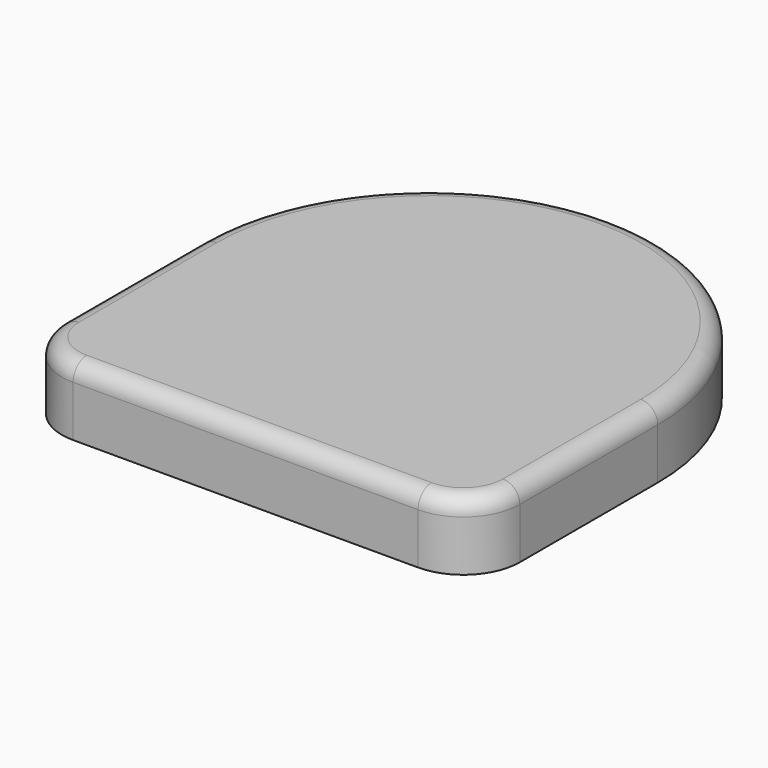
from build123d import *

# Parameters (mm, degrees)
F1_DEPTH = 60
F2_R     = 50
F3_R     = 15
F4_T     = -2.5


with BuildPart() as f1:
    # F0 (on Top) → F1 (new body)
    with BuildSketch(Plane.XY):
        with BuildLine():
            Line((202.5, -202.5), (202.5, 0))
            ThreePointArc((202.5, 0), (0, 202.5), (-202.5, 0))
            Line((-202.5, 0), (-202.5, -202.5))
            Line((-202.5, -202.5), (202.5, -202.5))
        make_face()
    extrude(amount=F1_DEPTH)

    # F2
    f2_edges = [f1.edges().sort_by_distance(p)[0] for p in [
        (202.5, -202.5, 30),
        (-202.5, -202.5, 30),
    ]]
    fillet(f2_edges, radius=F2_R)

    # F3
    f3_edges = [f1.edges().sort_by_distance(p)[0] for p in [
        (-202.5, -76.25, 60),
        (-187.855339, -187.855339, 60),
        (0, 202.5, 60),
        (0, -202.5, 60),
        (202.5, -76.25, 60),
        (187.855339, -187.855339, 60),
    ]]
    fillet(f3_edges, radius=F3_R)

    # F4
    f4_openings = [f1.faces().sort_by_distance(p)[0] for p in [
        (0, -17.630456, 0),
    ]]
    offset(amount=F4_T, openings=f4_openings)


solid = f1.part
